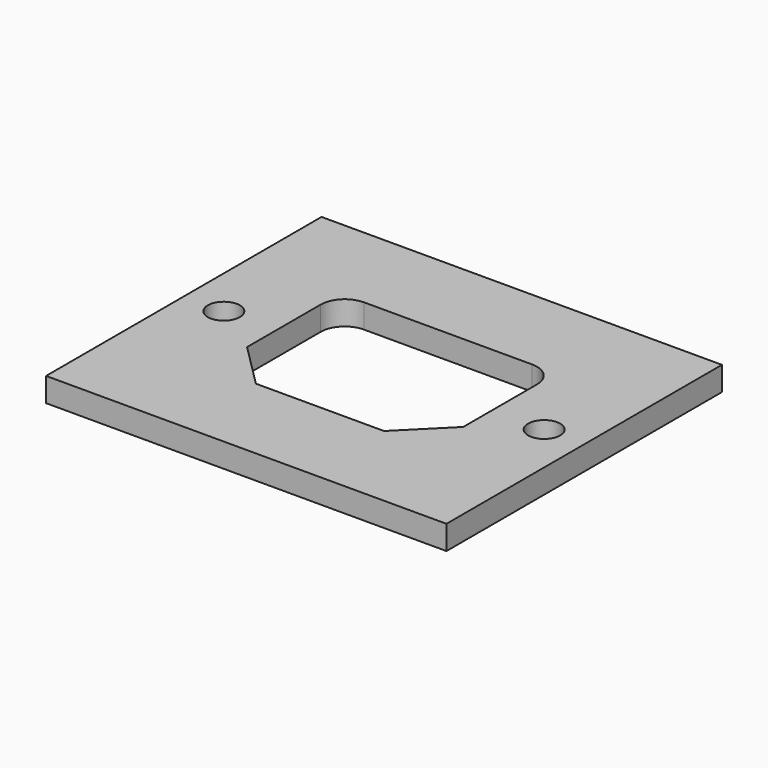
from build123d import *

# Parameters (mm, degrees)
F0_W     = 50
F0_H     = 43
F0_R     = 2
F0_W_2   = 27
F0_H_2   = 20
F1_DEPTH = 3
F2_R     = 3
F3_SIZE  = 5.5


with BuildPart() as f1:
    # F0 (on Top) → F1 (new body)
    with BuildSketch(Plane.XY):
        Rectangle(F0_W, F0_H)
        with Locations((-20, 0)):
            Circle(F0_R, mode=Mode.SUBTRACT)
        Rectangle(F0_W_2, F0_H_2, mode=Mode.SUBTRACT)
        with Locations((20, 0)):
            Circle(F0_R, mode=Mode.SUBTRACT)
    extrude(amount=F1_DEPTH)

    # F2
    f2_edges = [f1.edges().sort_by_distance(p)[0] for p in [
        (-13.5, 10, 1.5),
        (13.5, 10, 1.5),
    ]]
    fillet(f2_edges, radius=F2_R)

    # F3
    f3_edges = [f1.edges().sort_by_distance(p)[0] for p in [
        (-13.5, -10, 1.5),
        (13.5, -10, 1.5),
    ]]
    chamfer(f3_edges, length=F3_SIZE)


solid = f1.part
